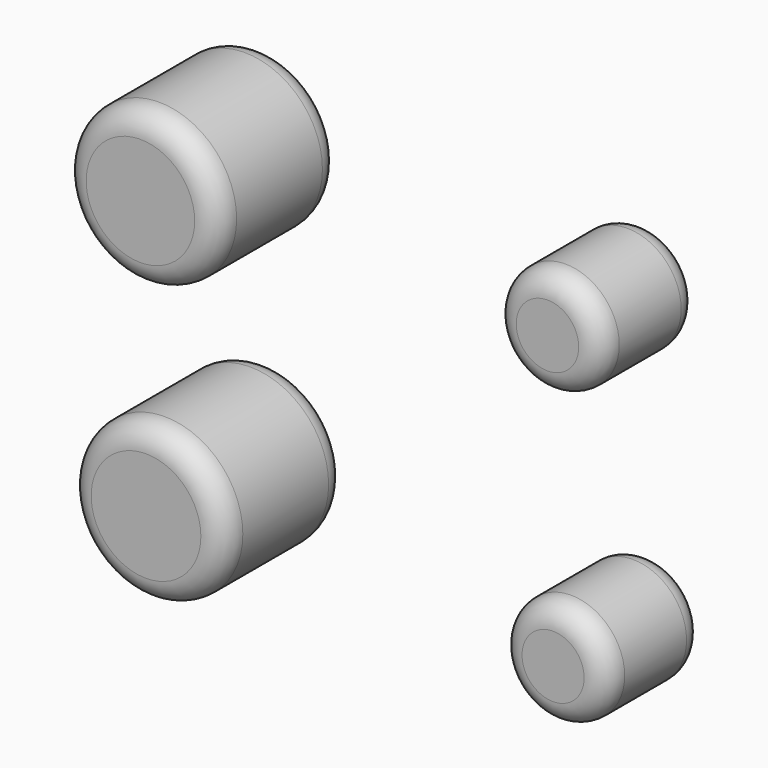
from build123d import *

# Parameters (mm, degrees)
F0_R     = 17.027928
F0_R_2   = 16.899231
F1_DEPTH = 33.528
F2_R     = 5.08
F0_R_3   = 11.670301
F0_R_4   = 11.710033
F3_DEPTH = 26.67
F4_R     = 4.905682


with BuildPart() as f1:
    # F0 (on Front) → F1 (new body)
    with BuildSketch(Plane.XZ):
        with Locations((-50.139602, -26.822401)):
            Circle(F0_R)
        with Locations((-51.3588, 33.223201)):
            Circle(F0_R_2)
    extrude(amount=F1_DEPTH)

    # F2
    f2_edges = [f1.edges().sort_by_distance(p)[0] for p in [
        (-68.258031, -33.528, 33.223201),
        (-68.258031, 0, 33.223201),
        (-67.16753, -33.528, -26.822401),
        (-67.16753, 0, -26.822401),
    ]]
    fillet(f2_edges, radius=F2_R)


with BuildPart() as f3:
    # F0 (on Front) → F3 (new body)
    with BuildSketch(Plane.XZ):
        with Locations((33.070803, -31.3944)):
            Circle(F0_R_3)
        with Locations((31.851601, 31.699199)):
            Circle(F0_R_4)
    extrude(amount=F3_DEPTH)

    # F4
    f4_edges = [f3.edges().sort_by_distance(p)[0] for p in [
        (21.400502, 0, -31.3944),
        (21.400502, -26.67, -31.3944),
        (20.141568, -26.67, 31.699199),
        (20.141568, 0, 31.699199),
    ]]
    fillet(f4_edges, radius=F4_R)


solid = Compound([f1.part, f3.part])
